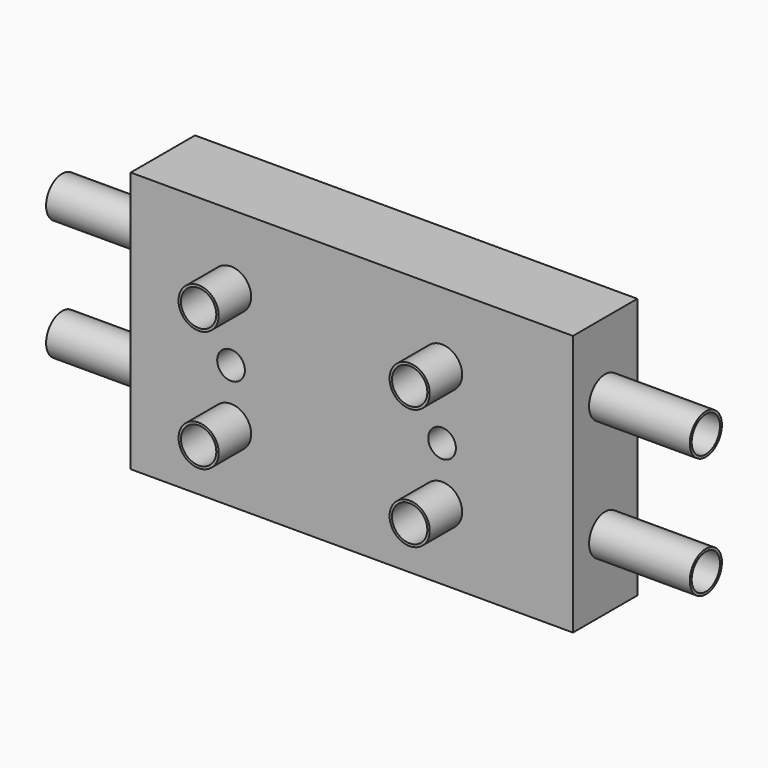
from build123d import *

# Parameters (mm, degrees)
F1_DEPTH  = 3.175
F2_R      = 1.0922
F3_DEPTH  = 50.8
F4_R      = 1.5875
F5_DEPTH  = 2.3622
F6_R      = 0.7874
F7_DEPTH  = 3.9878
F8_R      = 1.5875
F9_DEPTH  = 4.7498
F10_R     = 0.7874
F11_DEPTH = 9.525
F12_R     = 1.5875
F13_DEPTH = 4.7498
F14_R     = 0.7874
F15_DEPTH = 12.7
F19_R     = 1.5875
F19_R_2   = 1.397
F20_DEPTH = 5.5626
F18_R     = 1.5875
F18_R_2   = 1.397
F17_R     = 1.5875
F17_R_2   = 1.397
F16_R     = 1.5875
F16_R_2   = 1.397
F22_R     = 1.5875
F22_R_2   = 1.397
F23_DEPTH = 12.7
F21_R     = 1.5875
F21_R_2   = 1.397
F25_R     = 1.5875
F25_R_2   = 1.397
F26_DEPTH = 12.7
F24_R     = 1.5875
F24_R_2   = 1.397


with BuildPart() as f1:
    # F0 (on Front) → F1 (new body, symmetric)
    with BuildSketch(Plane.XZ):
        Polygon((34.925, 10.3124), (0, 10.3124), (0, 0), (0, -10.3124), (34.925, -10.3124), (34.925, 0), align=None)
    extrude(amount=F1_DEPTH, both=True)

    # F2 (on face) → F3 (cut)
    with BuildSketch(Plane.XZ.offset(3.175)):
        with Locations((7.9248, -0.508)):
            Circle(F2_R)
        with Locations((24.5872, -0.508)):
            Circle(F2_R)
    extrude(amount=-F3_DEPTH, mode=Mode.SUBTRACT)

    # F4 (on face) → F5 (cut)
    with BuildSketch(Plane.XZ.offset(3.175)):
        with Locations((7.9248, 4.7752)):
            Circle(F4_R)
        with Locations((7.9248, -4.7752)):
            Circle(F4_R)
        with Locations((24.5872, -4.7752)):
            Circle(F4_R)
        with Locations((24.5872, 4.7752)):
            Circle(F4_R)
    extrude(amount=-F5_DEPTH, mode=Mode.SUBTRACT)

    # F6 (on face) → F7 (cut)
    with BuildSketch(Plane.XZ.offset(3.175)):
        with Locations((7.9248, 4.7752)):
            Circle(F6_R)
        with Locations((7.9248, -4.7752)):
            Circle(F6_R)
        with Locations((24.5872, -4.7752)):
            Circle(F6_R)
        with Locations((24.5872, 4.7752)):
            Circle(F6_R)
    extrude(amount=-F7_DEPTH, mode=Mode.SUBTRACT)

    # F8 (on face) → F9 (cut)
    with BuildSketch(Plane(origin=(0, 0, 0), x_dir=(0, -1, 0), z_dir=(-1, 0, 0))):
        with Locations((0, 4.7752)):
            Circle(F8_R)
        with Locations((0, -4.7752)):
            Circle(F8_R)
    extrude(amount=-F9_DEPTH, mode=Mode.SUBTRACT)

    # F10 (on face) → F11 (cut)
    with BuildSketch(Plane(origin=(0, 0, 0), x_dir=(0, -1, 0), z_dir=(-1, 0, 0))):
        with Locations((0, 4.7752)):
            Circle(F10_R)
        with Locations((0, -4.7752)):
            Circle(F10_R)
    extrude(amount=-F11_DEPTH, mode=Mode.SUBTRACT)

    # F12 (on face) → F13 (cut)
    with BuildSketch(Plane.YZ.offset(34.925)):
        with Locations((0, 4.7752)):
            Circle(F12_R)
        with Locations((0, -4.7752)):
            Circle(F12_R)
    extrude(amount=-F13_DEPTH, mode=Mode.SUBTRACT)

    # F14 (on face) → F15 (cut)
    with BuildSketch(Plane.YZ.offset(34.925)):
        with Locations((0, 4.7752)):
            Circle(F14_R)
        with Locations((0, -4.7752)):
            Circle(F14_R)
    extrude(amount=-F15_DEPTH, mode=Mode.SUBTRACT)


with BuildPart() as f20:
    # F19 (on face) → F20 (new body)
    with BuildSketch(Plane.XZ.offset(0.8128)):
        with Locations((24.5872, 4.7752)):
            Circle(F19_R)
        with Locations((24.5872, 4.7752)):
            Circle(F19_R_2, mode=Mode.SUBTRACT)
    extrude(amount=F20_DEPTH)


with BuildPart() as f20b:
    # F18 (on face) → F20, piece 2 (new body)
    with BuildSketch(Plane.XZ.offset(0.8128)):
        with Locations((24.5872, -4.7752)):
            Circle(F18_R)
        with Locations((24.5872, -4.7752)):
            Circle(F18_R_2, mode=Mode.SUBTRACT)
    extrude(amount=F20_DEPTH)


with BuildPart() as f20c:
    # F17 (on face) → F20, piece 3 (new body)
    with BuildSketch(Plane.XZ.offset(0.8128)):
        with Locations((7.9248, -4.7752)):
            Circle(F17_R)
        with Locations((7.9248, -4.7752)):
            Circle(F17_R_2, mode=Mode.SUBTRACT)
    extrude(amount=F20_DEPTH)


with BuildPart() as f20d:
    # F16 (on face) → F20, piece 4 (new body)
    with BuildSketch(Plane.XZ.offset(0.8128)):
        with Locations((7.9248, 4.7752)):
            Circle(F16_R)
        with Locations((7.9248, 4.7752)):
            Circle(F16_R_2, mode=Mode.SUBTRACT)
    extrude(amount=F20_DEPTH)


with BuildPart() as f23:
    # F22 (on face) → F23 (new body)
    with BuildSketch(Plane.YZ.offset(30.1752)):
        with Locations((0, -4.7752)):
            Circle(F22_R)
        with Locations((0, -4.7752)):
            Circle(F22_R_2, mode=Mode.SUBTRACT)
    extrude(amount=F23_DEPTH)


with BuildPart() as f23b:
    # F21 (on face) → F23, piece 2 (new body)
    with BuildSketch(Plane.YZ.offset(30.1752)):
        with Locations((0, 4.7752)):
            Circle(F21_R)
        with Locations((0, 4.7752)):
            Circle(F21_R_2, mode=Mode.SUBTRACT)
    extrude(amount=F23_DEPTH)


with BuildPart() as f26:
    # F25 (on face) → F26 (new body)
    with BuildSketch(Plane(origin=(4.7498, 0, 0), x_dir=(0, -1, 0), z_dir=(-1, 0, 0))):
        with Locations((0, -4.7752)):
            Circle(F25_R)
        with Locations((0, -4.7752)):
            Circle(F25_R_2, mode=Mode.SUBTRACT)
    extrude(amount=F26_DEPTH)


with BuildPart() as f26b:
    # F24 (on face) → F26, piece 2 (new body)
    with BuildSketch(Plane(origin=(4.7498, 0, 0), x_dir=(0, -1, 0), z_dir=(-1, 0, 0))):
        with Locations((0, 4.7752)):
            Circle(F24_R)
        with Locations((0, 4.7752)):
            Circle(F24_R_2, mode=Mode.SUBTRACT)
    extrude(amount=F26_DEPTH)


solid = Compound([f1.part, f20.part, f20b.part, f20c.part, f20d.part, f23.part, f23b.part, f26.part, f26b.part])
